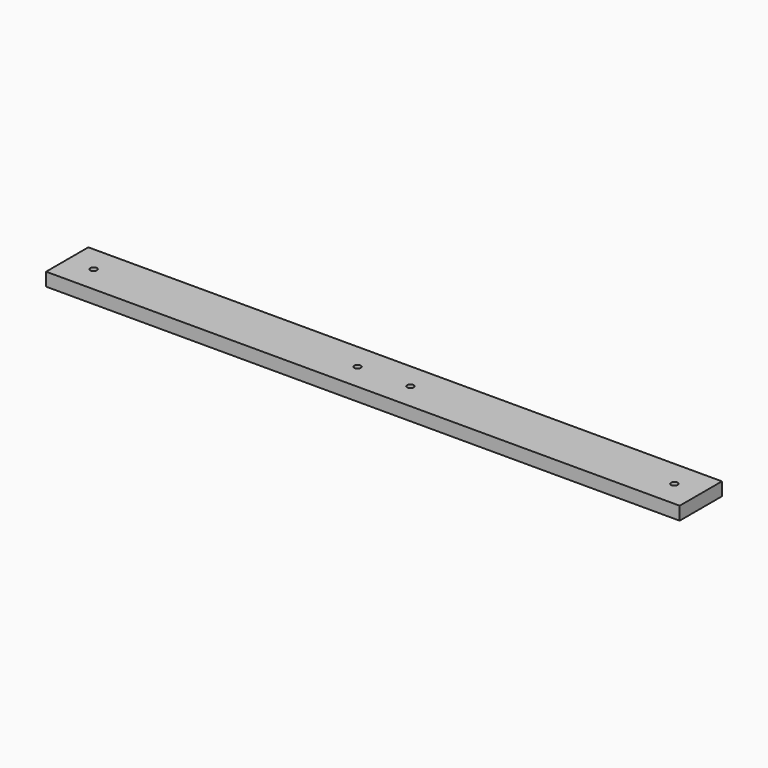
from build123d import *

# Parameters (mm, degrees)
F0_W     = 304.8
F0_H     = 25.4
F1_DEPTH = 6.35
F3_D     = 3.1242
F5_D     = 3.175


with BuildPart() as f1:
    # F0 (on Top) → F1 (new body)
    with BuildSketch(Plane.XY):
        with Locations((152.4, 12.7)):
            Rectangle(F0_W, F0_H)
    extrude(amount=F1_DEPTH)

    # F3 (through all)
    with Locations(Plane.XY.offset(6.35)):
        with Locations((139.7, 12.7), (165.1, 12.7)):
            Hole(F3_D / 2)

    # F5 (through all)
    with Locations(Plane.XY.offset(6.35)):
        with Locations((12.7, 12.7), (292.1, 12.7)):
            Hole(F5_D / 2)


solid = f1.part
